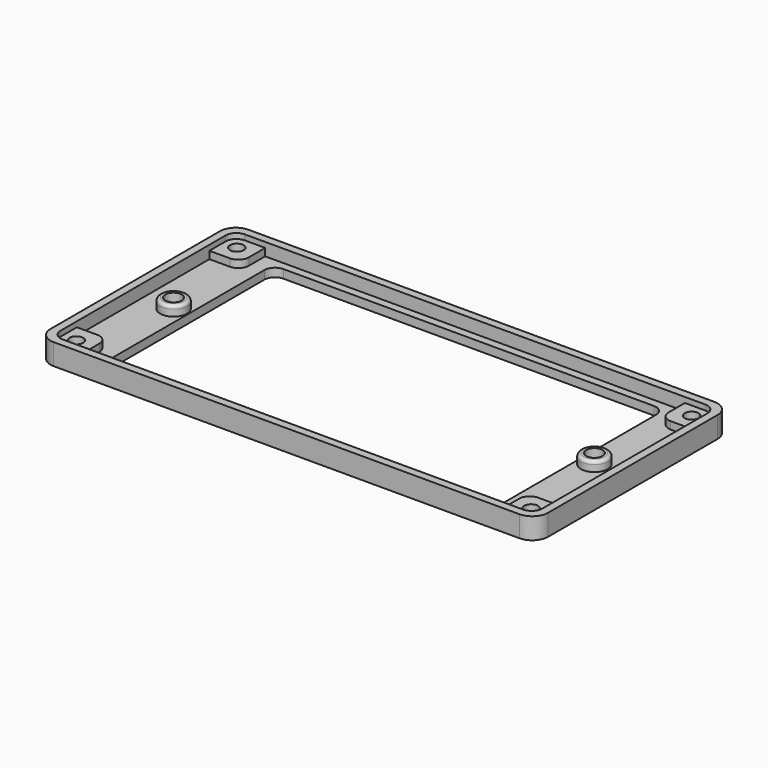
from build123d import *

# Parameters (mm, degrees)
F0_W     = 1.5
F0_H     = 31.3
F0_R     = 1.3
F0_W_2   = 79.3
F0_H_2   = 1.5
F1_DEPTH = 4
F0_R_2   = 2.55
F2_DEPTH = 1.6
F0_R_3   = 1.55
F3_DEPTH = 3.45
F4_R     = 1.3
F5_DEPTH = 1
F6_SIZE  = 1
F7_R     = 0.6


with BuildPart() as f1:
    # F0 (on Top) → F1 (new body)
    with BuildSketch(Plane.XY):
        with Locations((-46.25, 0)):
            Rectangle(F0_W, F0_H)
        with BuildLine():
            Line((-45.5, -15.65), (-47, -15.65))
            Line((-47, -15.65), (-47, -20))
            ThreePointArc((-47, -20), (-46.1213203436, -22.1213203436), (-44, -23))
            Line((-44, -23), (-39.65, -23))
            Line((-39.65, -23), (-39.65, -21.5))
            Line((-39.65, -21.5), (-45.5, -21.5))
            Line((-45.5, -21.5), (-45.5, -15.65))
        make_face()
        with BuildLine():
            Line((-41.65, -15.65), (-45.5, -15.65))
            Line((-45.5, -15.65), (-45.5, -21.5))
            Line((-45.5, -21.5), (-39.65, -21.5))
            Line((-39.65, -21.5), (-39.65, -17.65))
            ThreePointArc((-39.65, -17.65), (-40.2357864376, -16.2357864376), (-41.65, -15.65))
        make_face()
        with Locations((-42.95, -18.95)):
            Circle(F0_R, mode=Mode.SUBTRACT)
        with Locations((0, -22.25)):
            Rectangle(F0_W_2, F0_H_2)
        with BuildLine():
            Line((-39.65, 23), (-44, 23))
            ThreePointArc((-44, 23), (-46.1213203436, 22.1213203436), (-47, 20))
            Line((-47, 20), (-47, 15.65))
            Line((-47, 15.65), (-45.5, 15.65))
            Line((-45.5, 15.65), (-45.5, 21.5))
            Line((-45.5, 21.5), (-39.65, 21.5))
            Line((-39.65, 21.5), (-39.65, 23))
        make_face()
        with BuildLine():
            Line((-39.65, 17.65), (-39.65, 21.5))
            Line((-39.65, 21.5), (-45.5, 21.5))
            Line((-45.5, 21.5), (-45.5, 15.65))
            Line((-45.5, 15.65), (-41.65, 15.65))
            ThreePointArc((-41.65, 15.65), (-40.2357864376, 16.2357864376), (-39.65, 17.65))
        make_face()
        with Locations((-42.95, 18.95)):
            Circle(F0_R, mode=Mode.SUBTRACT)
        with Locations((0, 22.25)):
            Rectangle(F0_W_2, F0_H_2)
        with BuildLine():
            Line((44, 23), (39.65, 23))
            Line((39.65, 23), (39.65, 21.5))
            Line((39.65, 21.5), (45.5, 21.5))
            Line((45.5, 21.5), (45.5, 15.65))
            Line((45.5, 15.65), (47, 15.65))
            Line((47, 15.65), (47, 20))
            ThreePointArc((47, 20), (46.1213203436, 22.1213203436), (44, 23))
        make_face()
        with BuildLine():
            Line((45.5, 21.5), (39.65, 21.5))
            Line((39.65, 21.5), (39.65, 17.65))
            ThreePointArc((39.65, 17.65), (40.2357864376, 16.2357864376), (41.65, 15.65))
            Line((41.65, 15.65), (45.5, 15.65))
            Line((45.5, 15.65), (45.5, 21.5))
        make_face()
        with Locations((42.95, 18.95)):
            Circle(F0_R, mode=Mode.SUBTRACT)
        with BuildLine():
            Line((45.5, -21.5), (45.5, -15.65))
            Line((45.5, -15.65), (41.65, -15.65))
            ThreePointArc((41.65, -15.65), (40.2357864376, -16.2357864376), (39.65, -17.65))
            Line((39.65, -17.65), (39.65, -21.5))
            Line((39.65, -21.5), (45.5, -21.5))
        make_face()
        with Locations((42.95, -18.95)):
            Circle(F0_R, mode=Mode.SUBTRACT)
        with BuildLine():
            Line((47, -20), (47, -15.65))
            Line((47, -15.65), (45.5, -15.65))
            Line((45.5, -15.65), (45.5, -21.5))
            Line((45.5, -21.5), (39.65, -21.5))
            Line((39.65, -21.5), (39.65, -23))
            Line((39.65, -23), (44, -23))
            ThreePointArc((44, -23), (46.1213203436, -22.1213203436), (47, -20))
        make_face()
        with Locations((46.25, 0)):
            Rectangle(F0_W, F0_H)
    extrude(amount=F1_DEPTH)

    # F0 (on Top) → F2 (join)
    with BuildSketch(Plane.XY):
        with BuildLine():
            Line((39.65, 21.5), (-39.65, 21.5))
            Line((-39.65, 21.5), (-39.65, 17.65))
            ThreePointArc((-39.65, 17.65), (-40.2357864376, 16.2357864376), (-41.65, 15.65))
            Line((-41.65, 15.65), (-45.5, 15.65))
            Line((-45.5, 15.65), (-45.5, -15.65))
            Line((-45.5, -15.65), (-41.65, -15.65))
            ThreePointArc((-41.65, -15.65), (-40.2357864376, -16.2357864376), (-39.65, -17.65))
            Line((-39.65, -17.65), (-39.65, -21.5))
            Line((-39.65, -21.5), (39.65, -21.5))
            Line((39.65, -21.5), (39.65, -17.65))
            ThreePointArc((39.65, -17.65), (40.2357864376, -16.2357864376), (41.65, -15.65))
            Line((41.65, -15.65), (45.5, -15.65))
            Line((45.5, -15.65), (45.5, 15.65))
            Line((45.5, 15.65), (41.65, 15.65))
            ThreePointArc((41.65, 15.65), (40.2357864376, 16.2357864376), (39.65, 17.65))
            Line((39.65, 17.65), (39.65, 21.5))
        make_face()
        with Locations((-39.75, 0)):
            Circle(F0_R_2, mode=Mode.SUBTRACT)
        with BuildLine():
            ThreePointArc((-37, 18), (-36.4142135624, 19.4142135624), (-35, 20))
            Line((-35, 20), (35, 20))
            ThreePointArc((35, 20), (36.4142135624, 19.4142135624), (37, 18))
            Line((37, 18), (37, -18))
            ThreePointArc((37, -18), (36.4142135624, -19.4142135624), (35, -20))
            Line((35, -20), (-35, -20))
            ThreePointArc((-35, -20), (-36.4142135624, -19.4142135624), (-37, -18))
            Line((-37, -18), (-37, 18))
        make_face(mode=Mode.SUBTRACT)
        with Locations((39.75, 0)):
            Circle(F0_R_2, mode=Mode.SUBTRACT)
    extrude(amount=F2_DEPTH)

    # F0 (on Top) → F3 (join)
    with BuildSketch(Plane.XY):
        with Locations((-39.75, 0)):
            Circle(F0_R_2)
        with Locations((-39.75, 0)):
            Circle(F0_R_3, mode=Mode.SUBTRACT)
        with Locations((39.75, 0)):
            Circle(F0_R_2)
        with Locations((39.75, 0)):
            Circle(F0_R_3, mode=Mode.SUBTRACT)
    extrude(amount=F3_DEPTH)

    # F4 (on face) → F5 (cut)
    with BuildSketch(Plane.XY.offset(4)):
        with BuildLine():
            Line((-45.5, 19.5), (-45.5, 15.65))
            Line((-45.5, 15.65), (-41.65, 15.65))
            ThreePointArc((-41.65, 15.65), (-40.2357864376, 16.2357864376), (-39.65, 17.65))
            Line((-39.65, 17.65), (-39.65, 21.5))
            Line((-39.65, 21.5), (-43.5, 21.5))
            ThreePointArc((-43.5, 21.5), (-44.9142135624, 20.9142135624), (-45.5, 19.5))
        make_face()
        with Locations((-42.95, 18.95)):
            Circle(F4_R, mode=Mode.SUBTRACT)
        with BuildLine():
            Line((-41.65, -15.65), (-45.5, -15.65))
            Line((-45.5, -15.65), (-45.5, -19.5))
            ThreePointArc((-45.5, -19.5), (-44.9142135624, -20.9142135624), (-43.5, -21.5))
            Line((-43.5, -21.5), (-39.65, -21.5))
            Line((-39.65, -21.5), (-39.65, -17.65))
            ThreePointArc((-39.65, -17.65), (-40.2357864376, -16.2357864376), (-41.65, -15.65))
        make_face()
        with Locations((-42.95, -18.95)):
            Circle(F4_R, mode=Mode.SUBTRACT)
        with BuildLine():
            Line((39.65, -17.65), (39.65, -21.5))
            Line((39.65, -21.5), (43.5, -21.5))
            ThreePointArc((43.5, -21.5), (44.9142135624, -20.9142135624), (45.5, -19.5))
            Line((45.5, -19.5), (45.5, -15.65))
            Line((45.5, -15.65), (41.65, -15.65))
            ThreePointArc((41.65, -15.65), (40.2357864376, -16.2357864376), (39.65, -17.65))
        make_face()
        with Locations((42.95, -18.95)):
            Circle(F4_R, mode=Mode.SUBTRACT)
        with BuildLine():
            Line((43.5, 21.5), (39.65, 21.5))
            Line((39.65, 21.5), (39.65, 17.65))
            ThreePointArc((39.65, 17.65), (40.2357864376, 16.2357864376), (41.65, 15.65))
            Line((41.65, 15.65), (45.5, 15.65))
            Line((45.5, 15.65), (45.5, 19.5))
            ThreePointArc((45.5, 19.5), (44.9142135624, 20.9142135624), (43.5, 21.5))
        make_face()
        with Locations((42.95, 18.95)):
            Circle(F4_R, mode=Mode.SUBTRACT)
    extrude(amount=-F5_DEPTH, mode=Mode.SUBTRACT)

    # F6
    f6_edges = [f1.edges().sort_by_distance(p)[0] for p in [
        (41.65, 18.95, 0),
        (41.65, -18.95, 0),
        (-44.25, -18.95, 0),
        (-44.25, 18.95, 0),
    ]]
    chamfer(f6_edges, length=F6_SIZE)

    # F7
    f7_edges = [f1.edges().sort_by_distance(p)[0] for p in [
        (37.2, 0, 3.45),
        (-42.3, 0, 3.45),
    ]]
    fillet(f7_edges, radius=F7_R)


solid = f1.part
